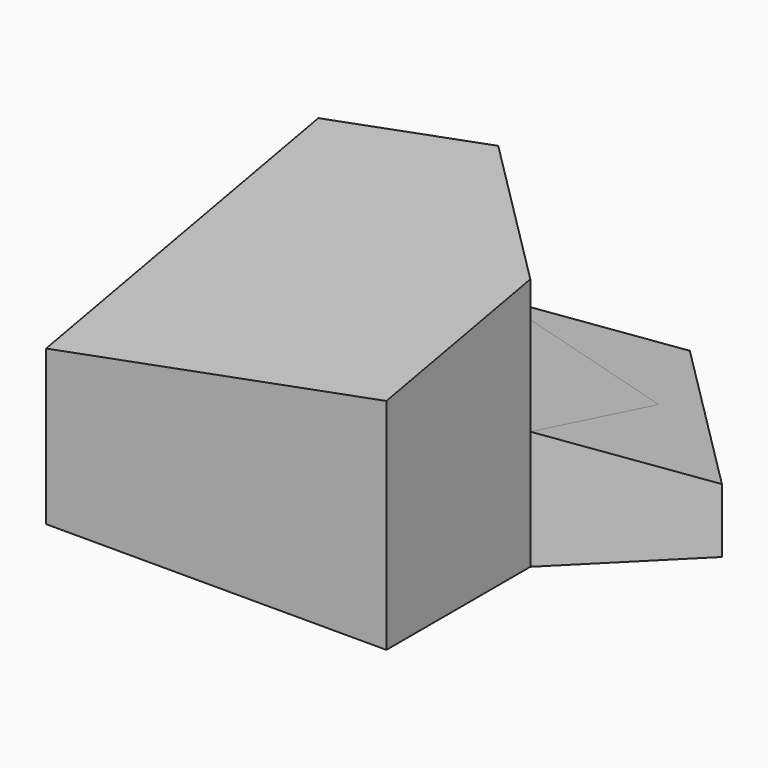
from build123d import *

# Parameters (mm, degrees)
F0_W     = 19.05
F0_H     = 19.05
F1_DEPTH = 15.875
F4_DEPTH = 18.796
F6_DEPTH = 6.35
F8_DEPTH = 12.7


with BuildPart() as f1:
    # F0 (on Top) → F1 (new body)
    with BuildSketch(Plane.XY):
        Rectangle(F0_W, F0_H)
    extrude(amount=F1_DEPTH)

    # F3 (on face) → F4 (cut, symmetric)
    with BuildSketch(Plane(origin=(0, 0, 0), x_dir=(0.707107, 0.707107, 0), z_dir=(0.707107, -0.707107, 0))):
        Polygon((-20.731339, 6.710676), (13.470384, 15.875), (-26.841145, 15.875), align=None)
    extrude(amount=F4_DEPTH, both=True, mode=Mode.SUBTRACT)

    # F5 (on face) → F6 (join, symmetric)
    with BuildSketch(Plane(origin=(0, 0, 0), x_dir=(0.707107, 0.707107, 0), z_dir=(0.707107, -0.707107, 0))):
        Polygon((5.318243, 0), (13.470384, 0), (25.414204, 0), (5.383082, 7.290732), align=None)
    extrude(amount=F6_DEPTH, both=True)

    # F7 (on face) → F8 (cut, symmetric)
    with BuildSketch(Plane(origin=(0, 0, 0), x_dir=(0.707107, 0.707107, 0), z_dir=(0.707107, -0.707107, 0))):
        Polygon((7.120384, 16.243063), (7.120384, 6.658406), (15.546197, 3.591661), (15.546197, 0), (25.414204, 0), (14.018306, 17.516766), align=None)
    extrude(amount=F8_DEPTH, both=True, mode=Mode.SUBTRACT)


solid = f1.part
